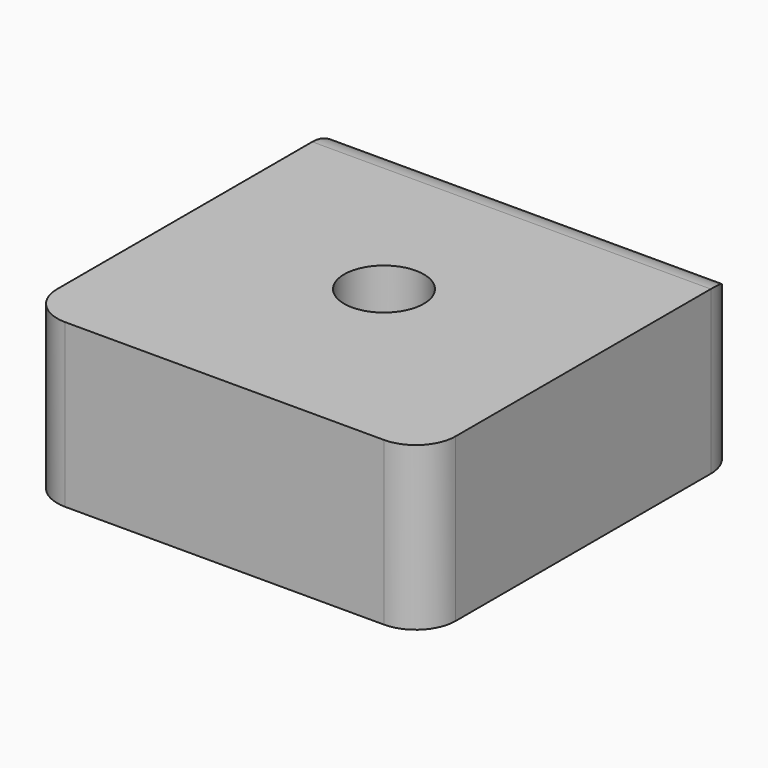
from build123d import *

# Parameters (mm, degrees)
F0_W     = 254
F0_H     = 254
F1_DEPTH = 103.632
F2_R     = 25.4
F4_D     = 50.8


with BuildPart() as f1:
    # F0 (on Top) → F1 (new body)
    with BuildSketch(Plane.XY):
        Rectangle(F0_W, F0_H)
    extrude(amount=-F1_DEPTH)

    # F2
    f2_edges = [f1.edges().sort_by_distance(p)[0] for p in [
        (-127, -127, -51.816),
        (0, 127, 0),
        (127, 127, -51.816),
        (127, -127, -51.816),
    ]]
    fillet(f2_edges, radius=F2_R)

    # F4 (through all)
    with Locations(Plane.XY):
        with Locations((0, 0)):
            Hole(F4_D / 2)


solid = f1.part
